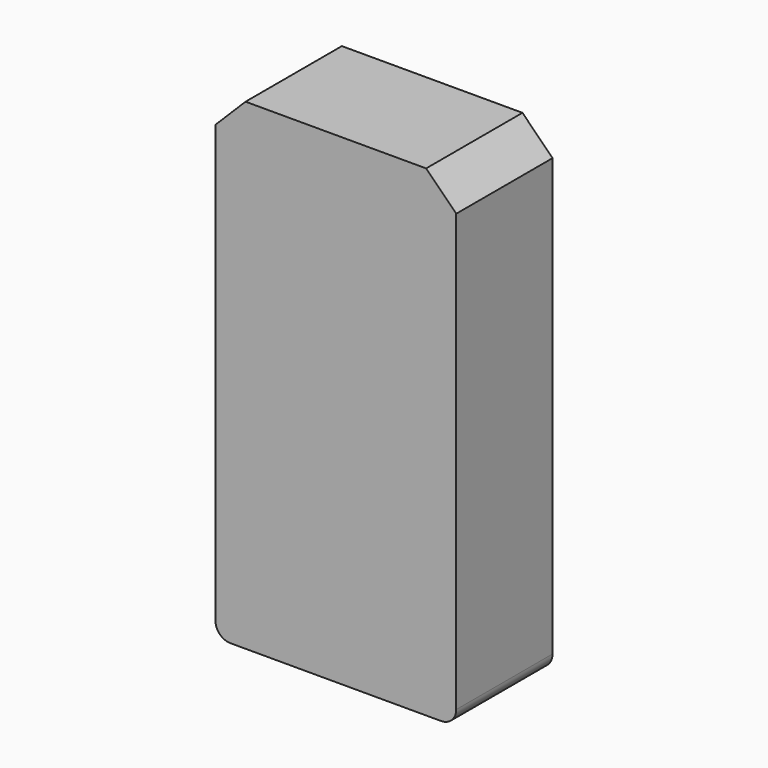
from build123d import *

# Parameters (mm, degrees)
F0_W     = 400
F0_H     = 800
F1_DEPTH = 200
F2_R     = 25
F3_SIZE  = 50
F4_SIZE  = 50


with BuildPart() as f1:
    # F0 (on Front) → F1 (new body)
    with BuildSketch(Plane.XZ):
        with Locations((-200, 400)):
            Rectangle(F0_W, F0_H)
    extrude(amount=F1_DEPTH)

    # F2
    f2_edges = [f1.edges().sort_by_distance(p)[0] for p in [
        (0, -100, 0),
        (-400, -100, 0),
    ]]
    fillet(f2_edges, radius=F2_R)

    # F3
    f3_edges = [f1.edges().sort_by_distance(p)[0] for p in [
        (-400, -100, 800),
    ]]
    chamfer(f3_edges, length=F3_SIZE)

    # F4
    f4_edges = [f1.edges().sort_by_distance(p)[0] for p in [
        (0, -100, 800),
    ]]
    chamfer(f4_edges, length=F4_SIZE)


solid = f1.part
